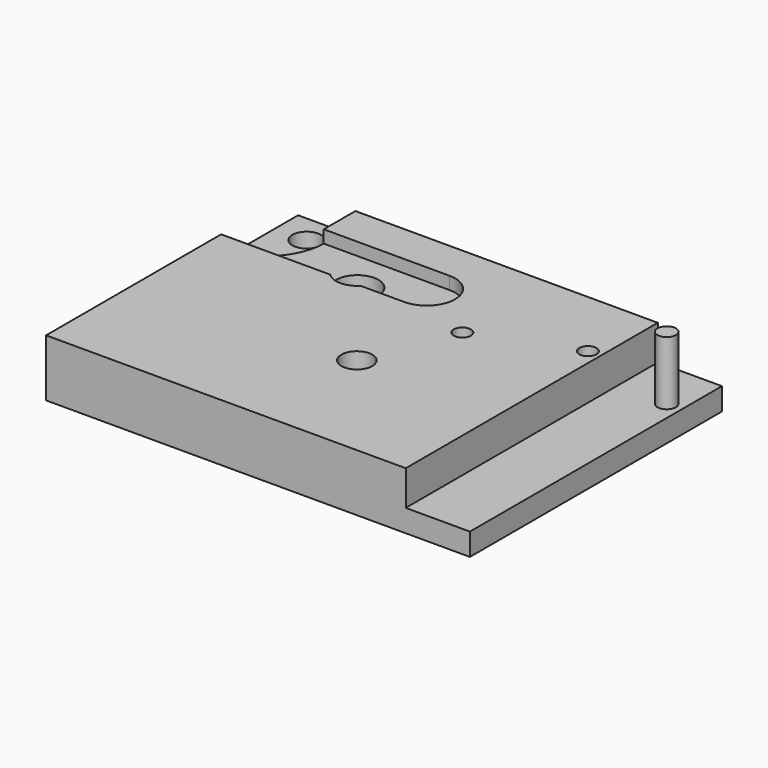
from build123d import *

# Parameters (mm, degrees)
F0_W     = 14.224
F0_H     = 69.85
F0_R     = 2.032
F1_DEPTH = 4.953
F0_R_2   = 3.429
F0_R_3   = 1.905
F2_DEPTH = 12.7
F3_DEPTH = 9.906
F0_R_4   = 3.175
F4_DEPTH = 7.747
F5_DEPTH = 19.05
F6_R     = 5.5245
F6_R_2   = 3.429
F7_DEPTH = 6.223


with BuildPart() as f1:
    # F0 (on Top) → F1 (new body)
    with BuildSketch(Plane.XY):
        with Locations((86.868, 34.925)):
            Rectangle(F0_W, F0_H)
        with Locations((90.678, 58.674)):
            Circle(F0_R, mode=Mode.SUBTRACT)
    extrude(amount=F1_DEPTH)

    # F0 (on Top) → F2 (join)
    with BuildSketch(Plane.XY):
        with BuildLine():
            Line((0, 48.514), (0, 0))
            Line((0, 0), (79.756, 0))
            Line((79.756, 0), (79.756, 69.85))
            Line((79.756, 69.85), (12.7, 69.85))
            Line((12.7, 69.85), (12.7, 61.087))
            Line((12.7, 61.087), (40.5765, 61.087))
            ThreePointArc((40.5765, 61.087), (45.021727, 59.245727), (46.863, 54.8005))
            ThreePointArc((46.863, 54.8005), (45.021727, 50.355273), (40.5765, 48.514))
            Line((40.5765, 48.514), (30.902261, 48.514))
            ThreePointArc((30.902261, 48.514), (27.559, 47.117), (24.215739, 48.514))
            Line((24.215739, 48.514), (0, 48.514))
        make_face()
        with Locations((47.879, 26.289)):
            Circle(F0_R_2, mode=Mode.SUBTRACT)
        with Locations((55.626, 45.847)):
            Circle(F0_R_3, mode=Mode.SUBTRACT)
        with Locations((76.962, 53.975)):
            Circle(F0_R_3, mode=Mode.SUBTRACT)
    extrude(amount=F2_DEPTH)

    # F0 (on Top) → F3 (join)
    with BuildSketch(Plane.XY):
        with BuildLine():
            ThreePointArc((12.7, 61.087), (8.935468, 52.188917), (0, 48.514))
            Line((0, 48.514), (24.215739, 48.514))
            ThreePointArc((24.215739, 48.514), (25.774257, 56.162872), (32.258, 51.816))
            ThreePointArc((32.258, 51.816), (31.905872, 50.031257), (30.902261, 48.514))
            Line((30.902261, 48.514), (40.5765, 48.514))
            ThreePointArc((40.5765, 48.514), (45.021727, 50.355273), (46.863, 54.8005))
            ThreePointArc((46.863, 54.8005), (45.021727, 59.245727), (40.5765, 61.087))
            Line((40.5765, 61.087), (12.7, 61.087))
        make_face()
    extrude(amount=F3_DEPTH)

    # F0 (on Top) → F4 (join)
    with BuildSketch(Plane.XY):
        with BuildLine():
            Line((0, 69.85), (0, 48.514))
            ThreePointArc((0, 48.514), (8.935468, 52.188917), (12.7, 61.087))
            Line((12.7, 61.087), (12.7, 69.85))
            Line((12.7, 69.85), (0, 69.85))
        make_face()
        with Locations((6.985, 63.5)):
            Circle(F0_R_4, mode=Mode.SUBTRACT)
    extrude(amount=F4_DEPTH)

    # F0 (on Top) → F5 (join)
    with BuildSketch(Plane.XY):
        with Locations((90.678, 58.674)):
            Circle(F0_R)
    extrude(amount=F5_DEPTH)

    # F6 (on face) → F7 (cut)
    with BuildSketch(Plane.XY):
        with Locations((47.879, 26.289)):
            Circle(F6_R)
        with Locations((47.879, 26.289)):
            Circle(F6_R_2, mode=Mode.SUBTRACT)
    extrude(amount=F7_DEPTH, mode=Mode.SUBTRACT)


solid = f1.part
